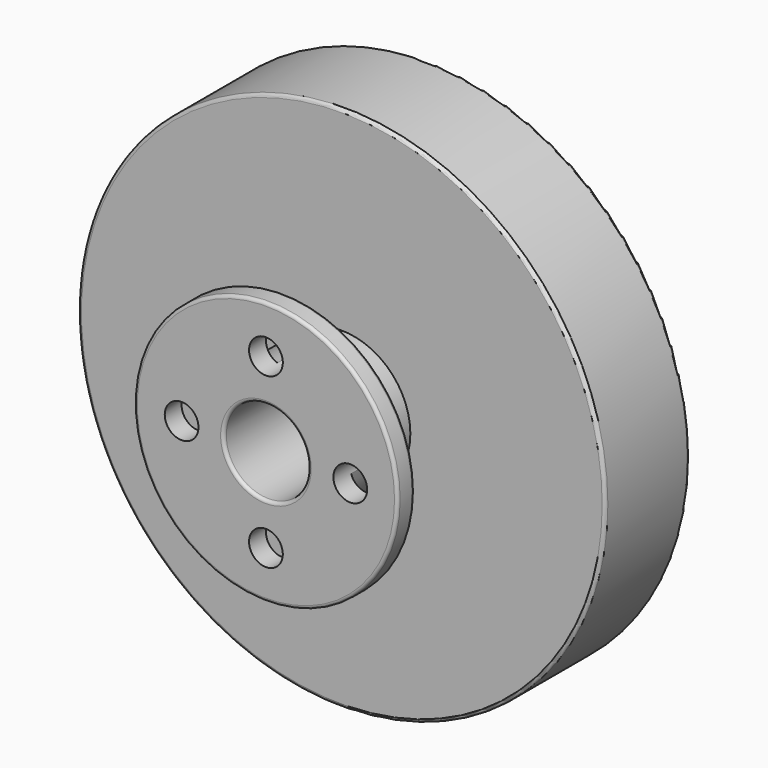
from build123d import *

# Parameters (mm, degrees)
F0_R      = 25
F1_DEPTH  = 10
F2_R      = 6.5
F3_DEPTH  = 7
F4_R      = 12.5
F5_DEPTH  = 2
F6_R      = 4
F7_DEPTH  = 19.001
F9_D      = 3.2
F9_DEPTH  = 4.25
F9_TIP    = 0.9613769904
F10_R     = 0.3
F11_R     = 21
F11_R_2   = 4
F12_DEPTH = 8.5


with BuildPart() as f1:
    # F0 (on Front) → F1 (new body)
    with BuildSketch(Plane.XZ):
        Circle(F0_R)
    extrude(amount=F1_DEPTH)

    # F2 (on face) → F3 (join)
    with BuildSketch(Plane.XZ.offset(10)):
        Circle(F2_R)
    extrude(amount=F3_DEPTH)

    # F4 (on face) → F5 (join)
    with BuildSketch(Plane.XZ.offset(17)):
        Circle(F4_R)
    extrude(amount=F5_DEPTH)

    # F6 (on face) → F7 (cut, through all)
    with BuildSketch(Plane.XZ.offset(19)):
        Circle(F6_R)
    extrude(amount=-F7_DEPTH, mode=Mode.SUBTRACT)

    # F9
    with Locations(Plane.XZ.offset(19)):
        with Locations((-8, 0), (0, 8), (8, 0), (0, -8)):
            Hole(F9_D / 2, depth=F9_DEPTH)
            with Locations((0, 0, -(F9_DEPTH + F9_TIP / 2))):  # 118° drill point
                Cone(0, F9_D / 2, F9_TIP, mode=Mode.SUBTRACT)

    # F10
    f10_edges = [f1.edges().sort_by_distance(p)[0] for p in [
        (-25, -10, 0),
        (-25, 0, 0),
        (-12.5, -19, 0),
        (-12.5, -17, 0),
        (-4, -19, 0),
    ]]
    fillet(f10_edges, radius=F10_R)

    # F11 (on face) → F12 (cut)
    with BuildSketch(Plane(origin=(0, 0, 0), x_dir=(-1, 0, 0), z_dir=(0, 1, 0))):
        Circle(F11_R)
        Circle(F11_R_2, mode=Mode.SUBTRACT)
    extrude(amount=-F12_DEPTH, mode=Mode.SUBTRACT)


solid = f1.part
